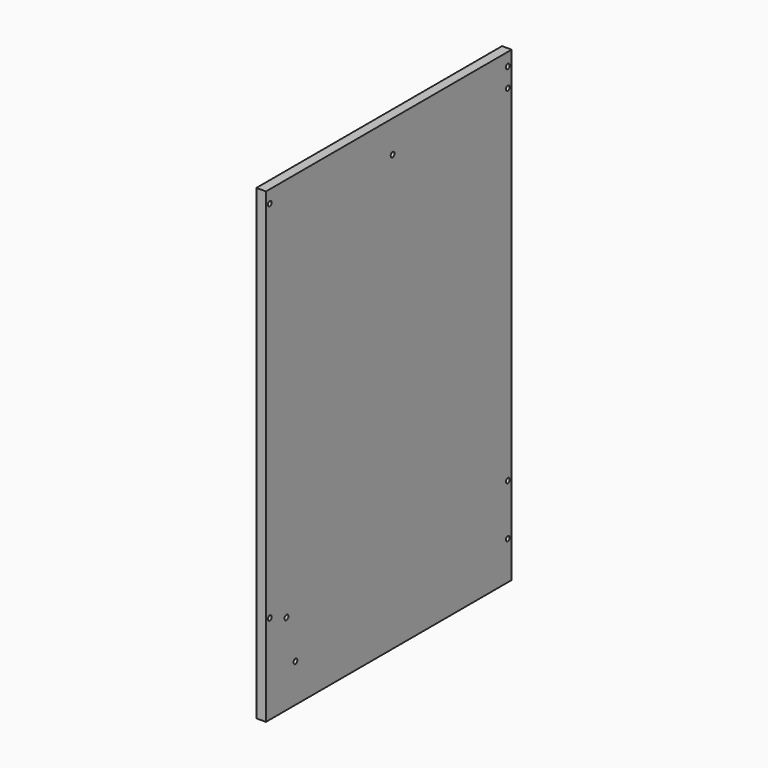
from build123d import *

# Parameters (mm, degrees)
F0_W     = 609.6
F0_H     = 927.1
F1_DEPTH = 9.525
F2_R     = 4.7625
F3_DEPTH = 34.925


with BuildPart() as f1:
    # F0 (on Right) → F1 (new body, symmetric)
    with BuildSketch(Plane.YZ):
        with Locations((-304.8, 463.55)):
            Rectangle(F0_W, F0_H)
    extrude(amount=F1_DEPTH, both=True)

    # F2 (on Right) → F3 (cut)
    with BuildSketch(Plane.YZ):
        with Locations((-9.525, 76.2)):
            Circle(F2_R)
        with Locations((-600.075, 177.8)):
            Circle(F2_R)
        with Locations((-600.075, 901.7)):
            Circle(F2_R)
        with Locations((-295.275, 1365.25)):
            Circle(F2_R)
        with Locations((-295.275, 2089.15)):
            Circle(F2_R)
        with Locations((-295.275, 863.6)):
            Circle(F2_R)
        with Locations((-9.525, 863.6)):
            Circle(F2_R)
        with Locations((-9.525, 2089.15)):
            Circle(F2_R)
        with Locations((-9.525, 1365.25)):
            Circle(F2_R)
        with Locations((-9.525, 901.7)):
            Circle(F2_R)
        with Locations((-9.525, 177.8)):
            Circle(F2_R)
        with Locations((-558.8, 161.925)):
            Circle(F2_R)
        with Locations((-536.575, 76.2)):
            Circle(F2_R)
    extrude(amount=F3_DEPTH, mode=Mode.SUBTRACT)


solid = f1.part
